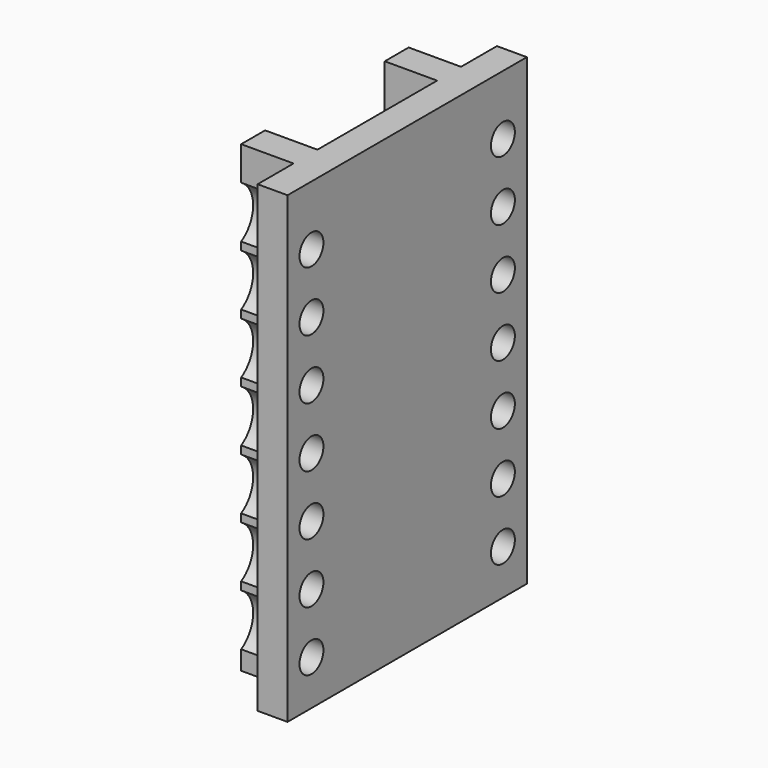
from build123d import *

# Parameters (mm, degrees)
PAD037_DEPTH            = 62
SKETCH075_W             = 40
SKETCH075_H             = 62
PAD038_DEPTH            = 4
SKETCH076_R             = 2
POCKET036_DEPTH         = 4
SKETCH077_R             = 4
POCKET037_DEPTH         = 7
BODY021_PLACEMENT_ANGLE = 90


with BuildPart() as leftmiddle001:
    # Sketch074 → Pad037 (new body)
    with BuildSketch(Plane.XZ):
        Polygon((0, 0), (0, 10), (7, 10), (7, 14), (-4, 14), (-4, -14), (7, -14), (7, -10), (0, -10), align=None)
    extrude(amount=PAD037_DEPTH)

    # Sketch075 (on Face4 of Pad037) → Pad038 (join)
    with BuildSketch(Plane(origin=(-4, 0, 0), x_dir=(0, 0, -1), z_dir=(-1, 0, 0))):
        with Locations((0, 31)):
            Rectangle(SKETCH075_W, SKETCH075_H)
    extrude(amount=-PAD038_DEPTH)

    # Sketch076 (on Face14 of Pad038) → Pocket036 (cut)
    with BuildSketch(Plane(origin=(-4, 0, 0), x_dir=(0, 0, -1), z_dir=(-1, 0, 0))):
        with Locations((-16, 8)):
            Circle(SKETCH076_R)
        with Locations((-16, 16)):
            Circle(SKETCH076_R)
        with Locations((-16, 24)):
            Circle(SKETCH076_R)
        with Locations((-16, 32)):
            Circle(SKETCH076_R)
        with Locations((-16, 40)):
            Circle(SKETCH076_R)
        with Locations((-16, 48)):
            Circle(SKETCH076_R)
        with Locations((-16, 56)):
            Circle(SKETCH076_R)
        with Locations((16, 56)):
            Circle(SKETCH076_R)
        with Locations((16, 48)):
            Circle(SKETCH076_R)
        with Locations((16, 40)):
            Circle(SKETCH076_R)
        with Locations((16, 32)):
            Circle(SKETCH076_R)
        with Locations((16, 24)):
            Circle(SKETCH076_R)
        with Locations((16, 16)):
            Circle(SKETCH076_R)
        with Locations((16, 8)):
            Circle(SKETCH076_R)
    extrude(amount=-POCKET036_DEPTH, mode=Mode.SUBTRACT)

    # Sketch077 (on Face14 of Pocket036) → Pocket037 (cut)
    with BuildSketch(Plane(origin=(0, 0, 0), x_dir=(0, 0, 1), z_dir=(1, 0, 0))):
        with Locations((-16, 8)):
            Circle(SKETCH077_R)
        with Locations((-16, 16)):
            Circle(SKETCH077_R)
        with Locations((-16, 24)):
            Circle(SKETCH077_R)
        with Locations((-16, 32)):
            Circle(SKETCH077_R)
        with Locations((-16, 40)):
            Circle(SKETCH077_R)
        with Locations((-16, 48)):
            Circle(SKETCH077_R)
        with Locations((-16, 56)):
            Circle(SKETCH077_R)
        with Locations((16, 56)):
            Circle(SKETCH077_R)
        with Locations((16, 48)):
            Circle(SKETCH077_R)
        with Locations((16, 40)):
            Circle(SKETCH077_R)
        with Locations((16, 32)):
            Circle(SKETCH077_R)
        with Locations((16, 24)):
            Circle(SKETCH077_R)
        with Locations((16, 16)):
            Circle(SKETCH077_R)
        with Locations((16, 8)):
            Circle(SKETCH077_R)
    extrude(amount=POCKET037_DEPTH, mode=Mode.SUBTRACT)


with BuildPart() as leftmiddle001_1:
    # Body021 placement: moved
    add(leftmiddle001.part.moved(Location((-136, -275.5, 206))).rotate(Axis((-136, -275.5, 206), (1, 0, 0)), BODY021_PLACEMENT_ANGLE))


with BuildPart() as rightmiddle001:
    # Part__Mirroring011: instance of LeftMiddle001
    add(leftmiddle001_1.part.mirror(Plane(origin=(0, 0, 0), x_dir=(0, -1, 0), z_dir=(1, 0, 0))))


solid = rightmiddle001.part
